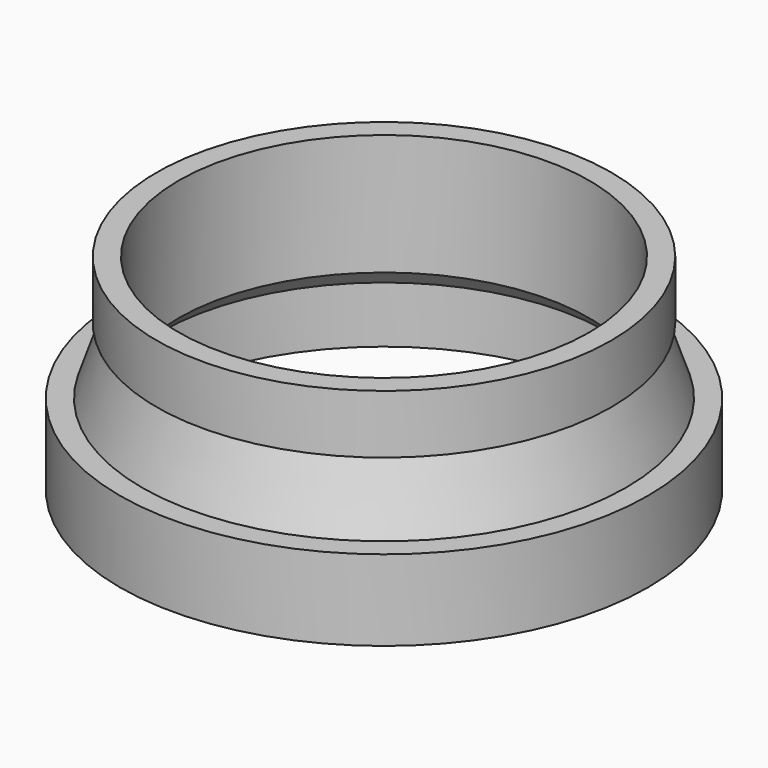
from build123d import *

# Parameters (mm, degrees)
F0_R     = 36
F0_R_2   = 28
F1_DEPTH = 28


with BuildPart() as f1:
    # F0 (on Top) → F1 (new body)
    with BuildSketch(Plane.XY):
        Circle(F0_R)
        Circle(F0_R_2, mode=Mode.SUBTRACT)
    extrude(amount=F1_DEPTH)

    # F2 (on Front) → F3 (revolve, cut)
    with BuildSketch(Plane.XZ):
        Polygon((33, 11), (36, 11), (49.779378, 8.35741), (48.804417, 33.795059), (31, 28), (31, 20), (30, 20), align=None)
        Polygon((22.764102, -1.316811), (33, 0), (33, 9), (30.5, 9), (28, 11.5), align=None)
    revolve(axis=Axis((0, 0, 14), (0, 0, 1)), mode=Mode.SUBTRACT)


solid = f1.part
